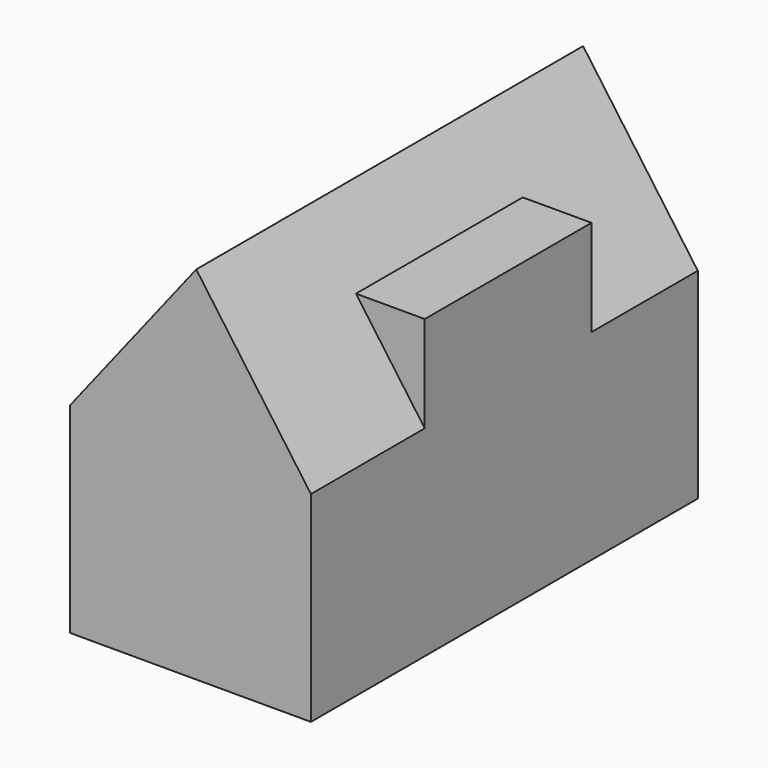
from build123d import *

# Parameters (mm, degrees)
F0_W     = 76.2
F0_H     = 63.5
F1_DEPTH = 153.06437
F2_W     = 65.984961
F2_H     = 30.462334
F3_DEPTH = 35.61956


with BuildPart() as f1:
    # F0 (on Front) → F1 (new body)
    with BuildSketch(Plane.XZ):
        with Locations((38.1, 31.75)):
            Rectangle(F0_W, F0_H)
        Polygon((39.89552, 114.3), (0, 63.5), (76.2, 63.5), align=None)
    extrude(amount=F1_DEPTH)

    # F2 (on face) → F3 (join)
    with BuildSketch(Plane.YZ.offset(76.2)):
        with Locations((-75.047368, 78.731167)):
            Rectangle(F2_W, F2_H)
    extrude(amount=-F3_DEPTH)


solid = f1.part
